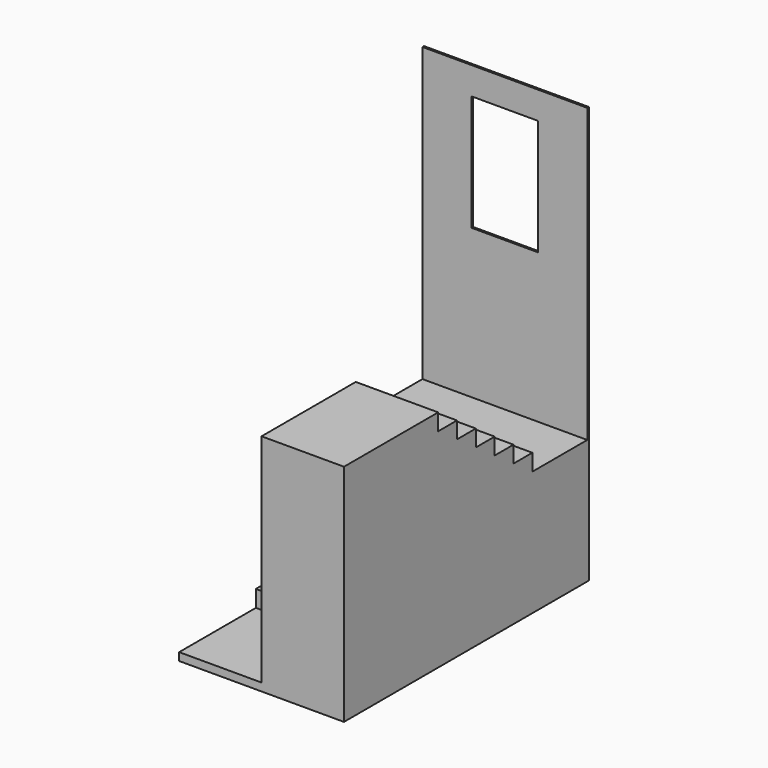
from build123d import *

# Parameters (mm, degrees)
F0_W      = 2133.6
F0_H      = 2717.8
F1_DEPTH  = 38.1
F3_DEPTH  = 25.4
F4_W      = 863.6
F4_H      = 1498.6
F5_DEPTH  = 50.8
F7_DEPTH  = 1574.8
F6_W      = 1066.8
F6_H      = 304.8
F8_DEPTH  = 1295.4
F9_DEPTH  = 1079.5
F10_DEPTH = 863.6
F11_DEPTH = 647.7
F12_DEPTH = 431.8
F13_DEPTH = 215.9
F14_W     = 1066.8
F14_H     = 304.8
F15_DEPTH = 215.9
F16_DEPTH = 431.8
F17_DEPTH = 647.7
F18_DEPTH = 863.6
F19_DEPTH = 1079.5
F20_DEPTH = 1295.4
F21_DEPTH = 1219.2
F22_W     = 1066.8
F22_H     = 1241.3837057114
F23_DEPTH = 215.9


with BuildPart() as f1:
    # F0 (on Top) → F1 (new body)
    with BuildSketch(Plane.XY):
        Rectangle(F0_W, F0_H)
    extrude(amount=F1_DEPTH)

    # F2 (on face) → F3 (join)
    with BuildSketch(Plane(origin=(0, 1358.9, 0), x_dir=(-1, 0, 0), z_dir=(0, 1, 0))):
        Polygon((1066.8, 3822.7), (-1066.8, 3822.7), (-1066.8, 38.1), (-1066.8, 0), (1066.8, 0), (1066.8, 38.1), align=None)
    extrude(amount=F3_DEPTH)

    # F4 (on face) → F5 (cut)
    with BuildSketch(Plane.XZ.offset(-1358.9)):
        with Locations((0, 2717.8)):
            Rectangle(F4_W, F4_H)
    extrude(amount=-F5_DEPTH, mode=Mode.SUBTRACT)

    # F7 (add): a face of the model
    f7_faces = [f1.faces().sort_by_distance(p)[0] for p in [
        (0, 12.7, 0),
    ]]
    extrude(f7_faces, amount=F7_DEPTH)

    # F6 (on face) → F8 (cut)
    with BuildSketch(Plane.XY.offset(38.1)):
        with Locations((-533.4, -1206.5)):
            Rectangle(F6_W, F6_H)
    extrude(amount=-F8_DEPTH, mode=Mode.SUBTRACT)

    # F6 (on face) → F9 (cut)
    with BuildSketch(Plane.XY.offset(38.1)):
        with Locations((-533.4, -901.7)):
            Rectangle(F6_W, F6_H)
    extrude(amount=-F9_DEPTH, mode=Mode.SUBTRACT)

    # F6 (on face) → F10 (cut)
    with BuildSketch(Plane.XY.offset(38.1)):
        with Locations((-533.4, -596.9)):
            Rectangle(F6_W, F6_H)
    extrude(amount=-F10_DEPTH, mode=Mode.SUBTRACT)

    # F6 (on face) → F11 (cut)
    with BuildSketch(Plane.XY.offset(38.1)):
        with Locations((-533.4, -292.1)):
            Rectangle(F6_W, F6_H)
    extrude(amount=-F11_DEPTH, mode=Mode.SUBTRACT)

    # F6 (on face) → F12 (cut)
    with BuildSketch(Plane.XY.offset(38.1)):
        with Locations((-533.4, 12.7)):
            Rectangle(F6_W, F6_H)
    extrude(amount=-F12_DEPTH, mode=Mode.SUBTRACT)

    # F6 (on face) → F13 (cut)
    with BuildSketch(Plane.XY.offset(38.1)):
        with Locations((-533.4, 317.5)):
            Rectangle(F6_W, F6_H)
    extrude(amount=-F13_DEPTH, mode=Mode.SUBTRACT)

    # F14 (on face) → F15 (join)
    with BuildSketch(Plane.XY.offset(38.1)):
        with Locations((533.4, 317.5)):
            Rectangle(F14_W, F14_H)
    extrude(amount=F15_DEPTH)

    # F14 (on face) → F16 (join)
    with BuildSketch(Plane.XY.offset(38.1)):
        with Locations((533.4, 12.7)):
            Rectangle(F14_W, F14_H)
    extrude(amount=F16_DEPTH)

    # F14 (on face) → F17 (join)
    with BuildSketch(Plane.XY.offset(38.1)):
        with Locations((533.4, -292.1)):
            Rectangle(F14_W, F14_H)
    extrude(amount=F17_DEPTH)

    # F14 (on face) → F18 (join)
    with BuildSketch(Plane.XY.offset(38.1)):
        with Locations((533.4, -596.9)):
            Rectangle(F14_W, F14_H)
    extrude(amount=F18_DEPTH)

    # F14 (on face) → F19 (join)
    with BuildSketch(Plane.XY.offset(38.1)):
        with Locations((533.4, -901.7)):
            Rectangle(F14_W, F14_H)
    extrude(amount=F19_DEPTH)

    # F20 (add): a face of the model
    f20_faces = [f1.faces().sort_by_distance(p)[0] for p in [
        (533.4, -1206.5, 38.1),
    ]]
    extrude(f20_faces, amount=F20_DEPTH)

    # F21 (add): a face of the model
    f21_faces = [f1.faces().sort_by_distance(p)[0] for p in [
        (428.4, -1358.9, -248.15),
    ]]
    extrude(f21_faces, amount=F21_DEPTH)

    # F22 (on face) → F23 (cut)
    with BuildSketch(Plane.XY.offset(-1257.3)):
        with Locations((-533.4, -1957.4081471443)):
            Rectangle(F22_W, F22_H)
    extrude(amount=-F23_DEPTH, mode=Mode.SUBTRACT)


solid = f1.part
